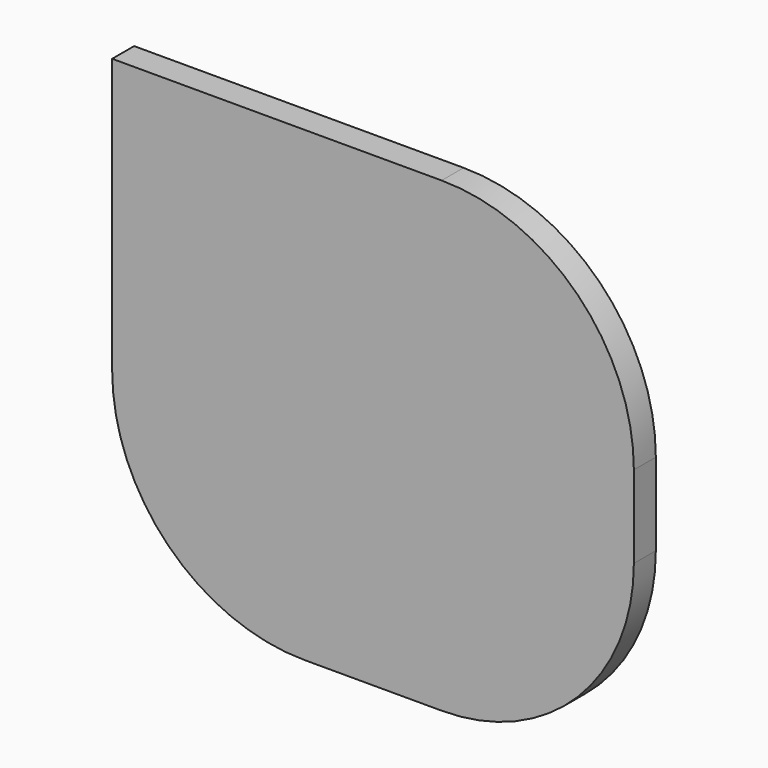
from build123d import *

# Parameters (mm, degrees)
F0_W     = 48.26
F0_H     = 43.18
F1_DEPTH = 2.54
F2_R     = 17.78
F3_R     = 17.78


with BuildPart() as f1:
    # F0 (on Front) → F1 (new body)
    with BuildSketch(Plane.XZ):
        Rectangle(F0_W, F0_H)
    extrude(amount=F1_DEPTH)

    # F2
    f2_edges = [f1.edges().sort_by_distance(p)[0] for p in [
        (24.13, -1.27, -21.59),
        (-24.13, -1.27, -21.59),
    ]]
    fillet(f2_edges, radius=F2_R)

    # F3
    f3_edges = [f1.edges().sort_by_distance(p)[0] for p in [
        (24.13, -1.27, 21.59),
    ]]
    fillet(f3_edges, radius=F3_R)


solid = f1.part
